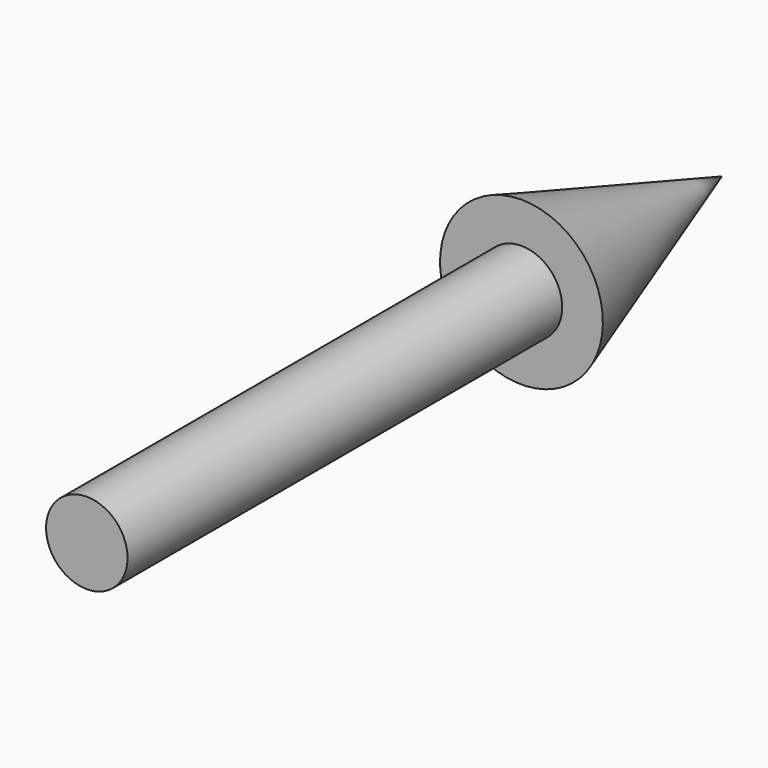
from build123d import *


with BuildPart() as f1:
    # F0 (on Right) → F1 (revolve)
    with BuildSketch(Plane.YZ):
        Polygon((26.375708, 6), (-53.624292, 6), (-53.624292, 0), (63.277908, 0), (26.375708, 11.990252), align=None)
    revolve(axis=Axis((0, 4.826808, 0), (0, -1, 0)))


solid = f1.part
